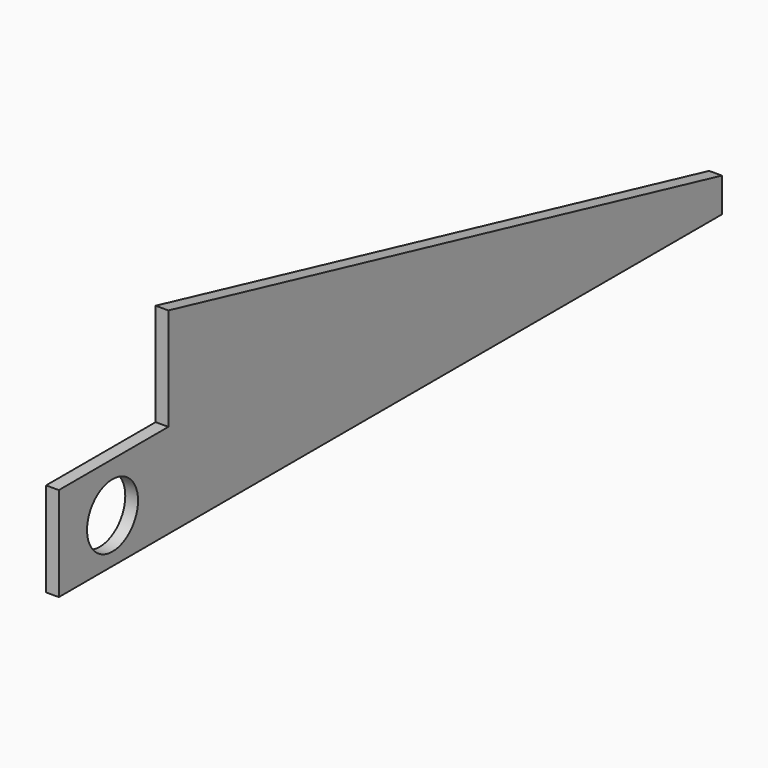
from build123d import *

# Parameters (mm, degrees)
F1_DEPTH = 5.08
F2_R     = 12.7
F3_DEPTH = 12.7


with BuildPart() as f1:
    # F0 (on Right) → F1 (new body)
    with BuildSketch(Plane.YZ):
        Polygon((143.104023, 0), (143.104023, 13.61572), (-132.544885, 78.375299), (-132.544885, 37.545515), (-187.095977, 37.545515), (-187.095977, 0), (-132.544885, 0), align=None)
    extrude(amount=F1_DEPTH)

    # F2 (on face) → F3 (cut)
    with BuildSketch(Plane.YZ.offset(5.08)):
        with Locations((-160.357416, 17.813968)):
            Circle(F2_R)
    extrude(amount=-F3_DEPTH, mode=Mode.SUBTRACT)


solid = f1.part
